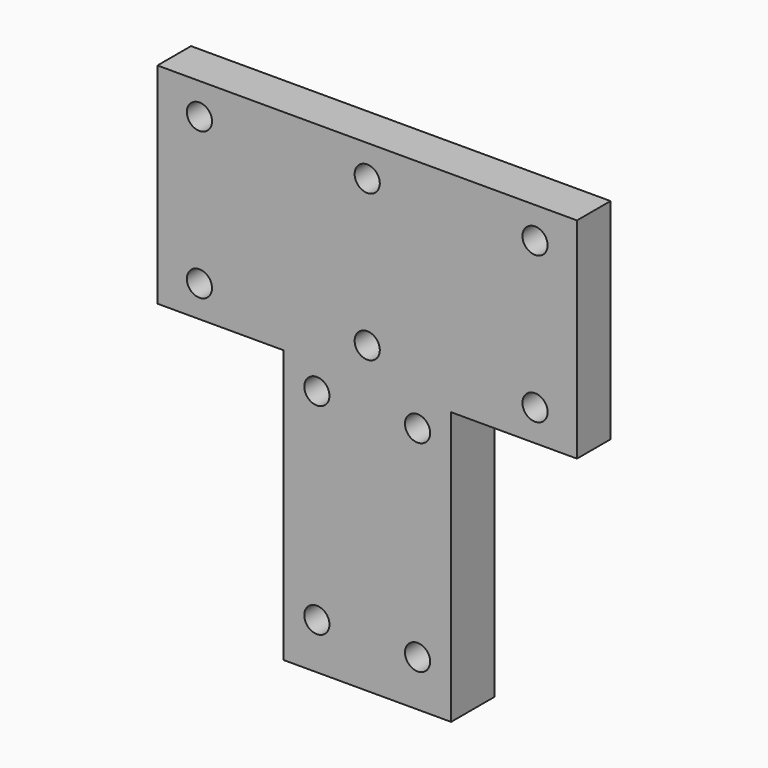
from build123d import *

# Parameters (mm, degrees)
F0_R     = 3
F1_DEPTH = 10
F2_W     = 40
F2_H     = 65
F2_R     = 3
F3_DEPTH = 2.986


with BuildPart() as f1:
    # F0 (on Front) → F1 (new body)
    with BuildSketch(Plane.XZ):
        Polygon((30, 65), (30, 0), (70, 0), (70, 65), (100, 65), (100, 115), (0, 115), (0, 65), align=None)
        with Locations((38, 11)):
            Circle(F0_R, mode=Mode.SUBTRACT)
        with Locations((62, 11)):
            Circle(F0_R, mode=Mode.SUBTRACT)
        with Locations((10, 72.5)):
            Circle(F0_R, mode=Mode.SUBTRACT)
        with Locations((38, 59)):
            Circle(F0_R, mode=Mode.SUBTRACT)
        with Locations((10, 107.5)):
            Circle(F0_R, mode=Mode.SUBTRACT)
        with Locations((62, 59)):
            Circle(F0_R, mode=Mode.SUBTRACT)
        with Locations((50, 72.5)):
            Circle(F0_R, mode=Mode.SUBTRACT)
        with Locations((90, 72.5)):
            Circle(F0_R, mode=Mode.SUBTRACT)
        with Locations((50, 107.5)):
            Circle(F0_R, mode=Mode.SUBTRACT)
        with Locations((90, 107.5)):
            Circle(F0_R, mode=Mode.SUBTRACT)
    extrude(amount=F1_DEPTH)

    # F2 (on face) → F3 (join)
    with BuildSketch(Plane(origin=(0, 0, 0), x_dir=(-1, 0, 0), z_dir=(0, 1, 0))):
        with Locations((-50, 32.5)):
            Rectangle(F2_W, F2_H)
        with Locations((-62, 11)):
            Circle(F2_R, mode=Mode.SUBTRACT)
        with Locations((-38, 11)):
            Circle(F2_R, mode=Mode.SUBTRACT)
        with Locations((-62, 59)):
            Circle(F2_R, mode=Mode.SUBTRACT)
        with Locations((-38, 59)):
            Circle(F2_R, mode=Mode.SUBTRACT)
    extrude(amount=F3_DEPTH)


solid = f1.part
